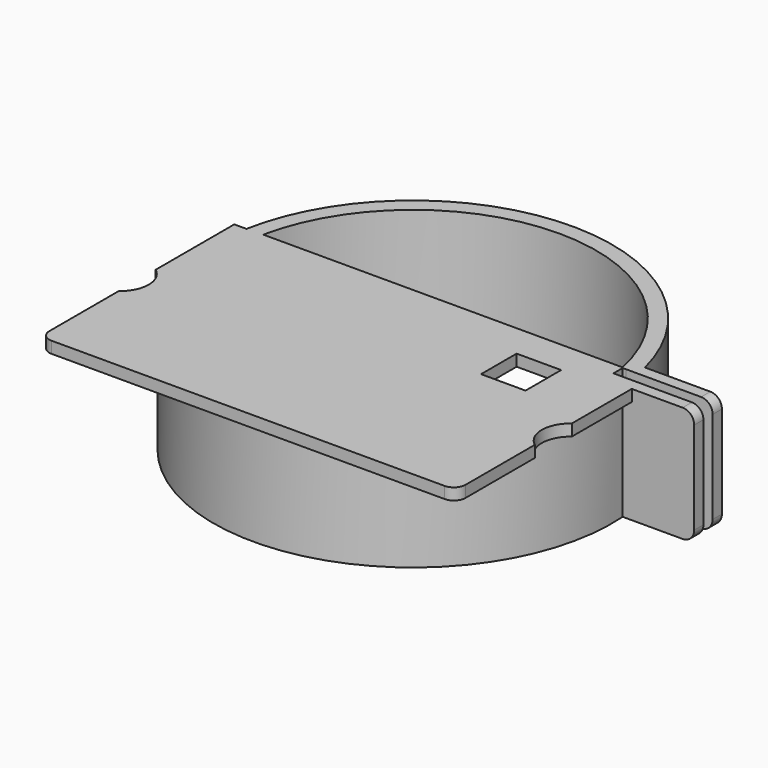
from build123d import *

# Parameters (mm, degrees)
CYLINDER020_R     = 5
CYLINDER020_DEPTH = 5
CYLINDER019_R     = 5
CYLINDER019_DEPTH = 5
BOX005_W          = 15
BOX005_H          = 2
BOX005_DEPTH      = 20
FILLET002_R       = 2
BOX002_W          = 10
BOX002_H          = 2
BOX002_DEPTH      = 20
BOX_W             = 80
BOX_H             = 39
BOX_DEPTH         = 25
CYLINDER002_R     = 31.75
CYLINDER002_DEPTH = 25
BOX001_W          = 7.7
BOX001_H          = 7.7
BOX001_DEPTH      = 10
BOX007_W          = 72
BOX007_H          = 42
BOX007_DEPTH      = 2
CYLINDER_R        = 31.75
CYLINDER_DEPTH    = 18
CYLINDER001_R     = 34.5
CYLINDER001_DEPTH = 20
FILLET001_R       = 2
BOX006_W          = 15
BOX006_H          = 2
BOX006_DEPTH      = 20
FILLET003_R       = 2


with BuildPart() as cylinder020:
    # Cylinder020 → Cylinder020 (new body)
    with BuildSketch(Plane(origin=(-39.01, -14.6034, 15), x_dir=(1, 0, 0), z_dir=(0, 0, 1))):
        Circle(CYLINDER020_R)
    extrude(amount=CYLINDER020_DEPTH)


with BuildPart() as fusion013:
    # Cylinder019 → Cylinder019 (new body)
    with BuildSketch(Plane(origin=(38.99, -14.6034, 15), x_dir=(1, 0, 0), z_dir=(0, 0, 1))):
        Circle(CYLINDER019_R)
    extrude(amount=CYLINDER019_DEPTH)

    # Fusion013: union Cylinder020
    add(cylinder020.part)


with BuildPart() as fillet002:
    # Box005 → Box005 (new body)
    with BuildSketch(Plane(origin=(31.79, 6.35995, 0), x_dir=(1, 0, 0), z_dir=(0, 0, 1))):
        with Locations((7.5, 1)):
            Rectangle(BOX005_W, BOX005_H)
    extrude(amount=BOX005_DEPTH)

    # Fillet002
    fillet002_edges = [fillet002.edges().sort_by_distance(p)[0] for p in [
        (46.79, 7.35995, 20),
        (46.79, 7.35995, 0),
    ]]
    fillet(fillet002_edges, radius=FILLET002_R)


with BuildPart() as kostka002:
    # Box002 → Box002 (new body)
    with BuildSketch(Plane(origin=(31.22162, 4.362905, 0), x_dir=(1, 0, 0), z_dir=(0, 0, 1))):
        with Locations((5, 1)):
            Rectangle(BOX002_W, BOX002_H)
    extrude(amount=BOX002_DEPTH)


with BuildPart() as kostka:
    # Box → Box (new body)
    with BuildSketch(Plane(origin=(-38, -32.5, 0), x_dir=(1, 0, 0), z_dir=(0, 0, 1))):
        with Locations((40, 19.5)):
            Rectangle(BOX_W, BOX_H)
    extrude(amount=BOX_DEPTH)


with BuildPart() as cut001:
    # Cylinder002 → Cylinder002 (new body)
    with BuildSketch(Plane.XY):
        Circle(CYLINDER002_R)
    extrude(amount=CYLINDER002_DEPTH)

    # Cut001: cut Kostka
    add(kostka.part, mode=Mode.SUBTRACT)


with BuildPart() as kostka001:
    # Box001 → Box001 (new body)
    with BuildSketch(Plane(origin=(25.1, -7, 10), x_dir=(0, 1, 0), z_dir=(0, 0, 1))):
        with Locations((3.85, 3.85)):
            Rectangle(BOX001_W, BOX001_H)
    extrude(amount=BOX001_DEPTH)


with BuildPart() as kostka007:
    # Box007 → Box007 (new body)
    with BuildSketch(Plane(origin=(-36.01, -35.6034, 18), x_dir=(1, 0, 0), z_dir=(0, 0, 1))):
        with Locations((36, 21)):
            Rectangle(BOX007_W, BOX007_H)
    extrude(amount=BOX007_DEPTH)


with BuildPart() as cylinder:
    # Cylinder → Cylinder (new body)
    with BuildSketch(Plane.XY):
        Circle(CYLINDER_R)
    extrude(amount=CYLINDER_DEPTH)


with BuildPart() as fusion001:
    # Cylinder001 → Cylinder001 (new body)
    with BuildSketch(Plane.XY):
        Circle(CYLINDER001_R)
    extrude(amount=CYLINDER001_DEPTH)

    # Cut: cut Cylinder
    add(cylinder.part, mode=Mode.SUBTRACT)

    # Fusion: union Kostka007
    add(kostka007.part)

    # Cut002: cut Kostka001
    add(kostka001.part, mode=Mode.SUBTRACT)

    # Cut003: cut Cut001
    add(cut001.part, mode=Mode.SUBTRACT)

    # Cut004: cut Kostka002
    add(kostka002.part, mode=Mode.SUBTRACT)

    # Fillet001
    fillet001_edges = [fusion001.edges().sort_by_distance(p)[0] for p in [
        (-36.01, -35.6034, 19),
        (35.99, -35.6034, 19),
    ]]
    fillet(fillet001_edges, radius=FILLET001_R)

    # Fusion001: union Fillet002
    add(fillet002.part)


with BuildPart() as base:
    # Box006 → Box006 (new body)
    with BuildSketch(Plane(origin=(31.7936, 2.359946, 0), x_dir=(1, 0, 0), z_dir=(0, 0, 1))):
        with Locations((7.5, 1)):
            Rectangle(BOX006_W, BOX006_H)
    extrude(amount=BOX006_DEPTH)

    # Fillet003
    fillet003_edges = [base.edges().sort_by_distance(p)[0] for p in [
        (46.7936, 3.359946, 20),
        (46.7936, 3.359946, 0),
    ]]
    fillet(fillet003_edges, radius=FILLET003_R)

    # Fusion002: union Fusion001
    add(fusion001.part)

    # Cut015: cut Fusion013
    add(fusion013.part, mode=Mode.SUBTRACT)


solid = base.part
